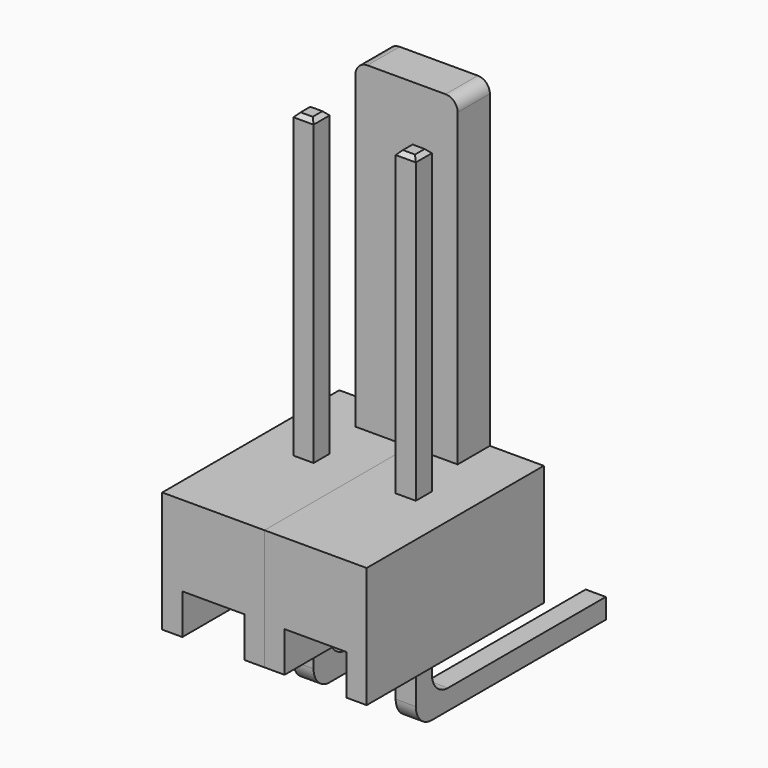
from build123d import *

# Parameters (mm, degrees)
PAD_DEPTH        = 5.5
ARRAY_X_COUNT    = 2
ARRAY_X_PITCH    = 2.54
SKETCH002_W      = 2.54
SKETCH002_H      = 8
PAD002_DEPTH     = 1
FILLET_R         = 0.3
PAD003_DEPTH     = 0.5
CHAMFER_SIZE     = 0.1
FILLET001_R      = 0.5
ARRAY001_X_COUNT = 2
ARRAY001_X_PITCH = 2.54


with BuildPart() as array:
    # Sketch → Pad (new body)
    with BuildSketch(Plane.XZ):
        Polygon((0, 0), (0, 3), (2.54, 3), (2.54, 0), (2.04, 0), (2.04, 1), (0.5, 1), (0.5, 0), align=None)
    extrude(amount=PAD_DEPTH)


with BuildPart() as array_copy1:
    # Array X: instance of Array
    add(array.part.moved(Location(Vector(1, 0, 0) * (1 * ARRAY_X_PITCH))))


with BuildPart() as fillet_body:
    # Sketch002 → Pad002 (new body)
    with BuildSketch(Plane.XZ):
        with Locations((2.47, 7)):
            Rectangle(SKETCH002_W, SKETCH002_H)
    extrude(amount=PAD002_DEPTH)

    # Fillet
    fillet_edges = [fillet_body.edges().sort_by_distance(p)[0] for p in [
        (1.2, -0.5, 11),
        (3.74, -0.5, 11),
    ]]
    fillet(fillet_edges, radius=FILLET_R)


with BuildPart() as array001:
    # Sketch003 → Pad003 (new body)
    with BuildSketch(Plane.YZ.offset(1.02)):
        Polygon((-2.7, 10.5), (-2.7, -2), (3.3, -2), (3.3, -1.5), (-2.2, -1.5), (-2.2, 10.5), align=None)
    extrude(amount=PAD003_DEPTH)

    # Chamfer
    chamfer_edges = [array001.edges().sort_by_distance(p)[0] for p in [
        (1.27, 3.3, -2),
        (1.27, 3.3, -1.5),
        (1.02, 3.3, -1.75),
        (1.52, 3.3, -1.75),
        (1.27, -2.2, 10.5),
        (1.27, -2.7, 10.5),
        (1.02, -2.45, 10.5),
        (1.52, -2.45, 10.5),
    ]]
    chamfer(chamfer_edges, length=CHAMFER_SIZE)

    # Fillet001
    fillet001_edges = [array001.edges().sort_by_distance(p)[0] for p in [
        (1.27, -2.2, -1.5),
        (1.27, -2.7, -2),
    ]]
    fillet(fillet001_edges, radius=FILLET001_R)

    # Array001 X: Array001 ×2


with BuildPart() as array001_1:
    add(array001.part)
    with Locations(*[(i * ARRAY001_X_PITCH, 0, 0) for i in range(1, ARRAY001_X_COUNT)]):
        add(array001.part)


solid = Compound([array.part, array_copy1.part, fillet_body.part, array001_1.part])
